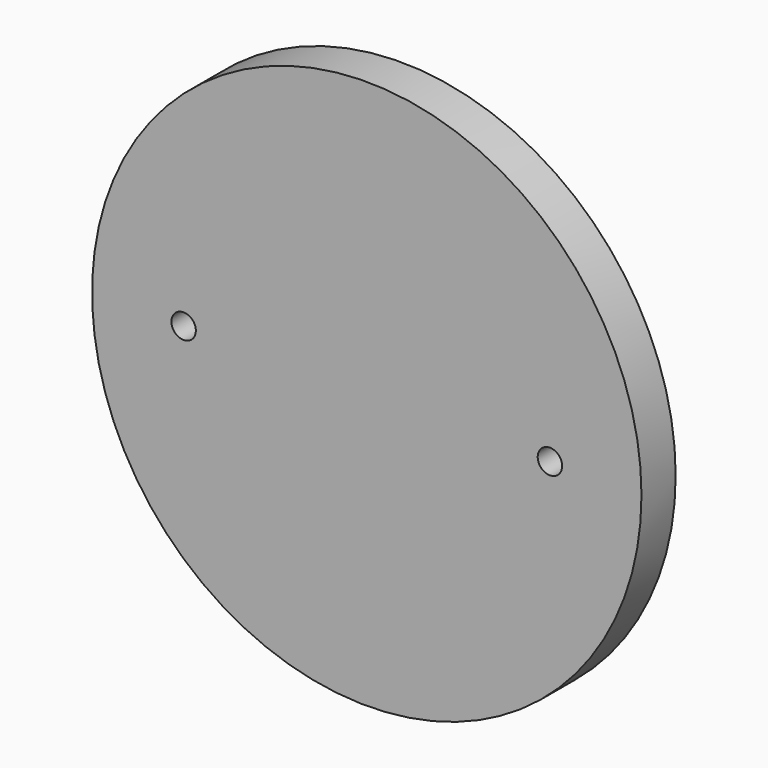
from build123d import *

# Parameters (mm, degrees)
F1_DEPTH = 3.5


with BuildPart() as f1:
    # F0 (on Front) → F1 (new body, symmetric)
    with BuildSketch(Plane.XZ):
        with BuildLine():
            ThreePointArc((-45, 0), (0, -45), (45, 0))
            Line((45, 0), (32, 0))
            ThreePointArc((32, 0), (30, -2), (28, 0))
            Line((28, 0), (-28, 0))
            ThreePointArc((-28, 0), (-30, -2), (-32, 0))
            Line((-32, 0), (-45, 0))
        make_face()
        with BuildLine():
            Line((32, 0), (45, 0))
            ThreePointArc((45, 0), (0, 45), (-45, 0))
            Line((-45, 0), (-32, 0))
            ThreePointArc((-32, 0), (-30, 2), (-28, 0))
            Line((-28, 0), (28, 0))
            ThreePointArc((28, 0), (30, 2), (32, 0))
        make_face()
    extrude(amount=F1_DEPTH, both=True)


solid = f1.part
